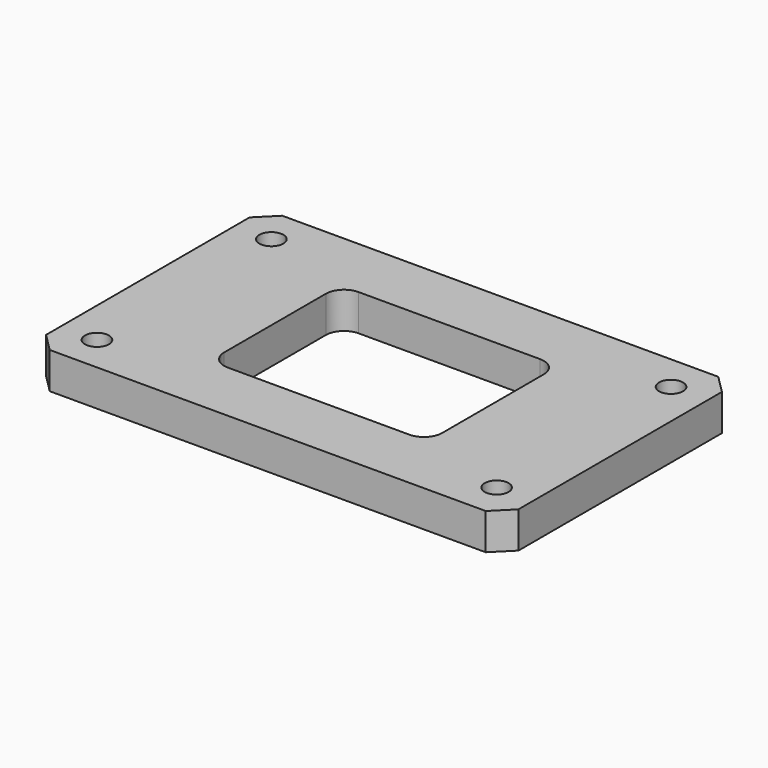
from build123d import *

# Parameters (mm, degrees)
F0_W     = 130
F0_H     = 80
F0_W_2   = 60
F0_H_2   = 45
F1_DEPTH = 10
F3_R     = 5
F4_SIZE  = 5
F5_D     = 6.6
F5_DEPTH = 20
F5_TIP   = 1.9828400428


with BuildPart() as f1:
    # F0 (on Top) → F1 (new body)
    with BuildSketch(Plane.XY):
        Rectangle(F0_W, F0_H)
        Rectangle(F0_W_2, F0_H_2, mode=Mode.SUBTRACT)
    extrude(amount=F1_DEPTH)

    # F3
    f3_edges = [f1.edges().sort_by_distance(p)[0] for p in [
        (-30, 22.5, 5),
        (-30, -22.5, 5),
        (30, -22.5, 5),
        (30, 22.5, 5),
    ]]
    fillet(f3_edges, radius=F3_R)

    # F4
    f4_edges = [f1.edges().sort_by_distance(p)[0] for p in [
        (-65, -40, 5),
        (-65, 40, 5),
        (65, -40, 5),
        (65, 40, 5),
    ]]
    chamfer(f4_edges, length=F4_SIZE)

    # F5
    with Locations(Plane.XY.offset(10)):
        with Locations((-55, 30), (-55, -30), (55, -30), (55, 30)):
            Hole(F5_D / 2, depth=F5_DEPTH)
            with Locations((0, 0, -(F5_DEPTH + F5_TIP / 2))):  # 118° drill point
                Cone(0, F5_D / 2, F5_TIP, mode=Mode.SUBTRACT)


solid = f1.part
